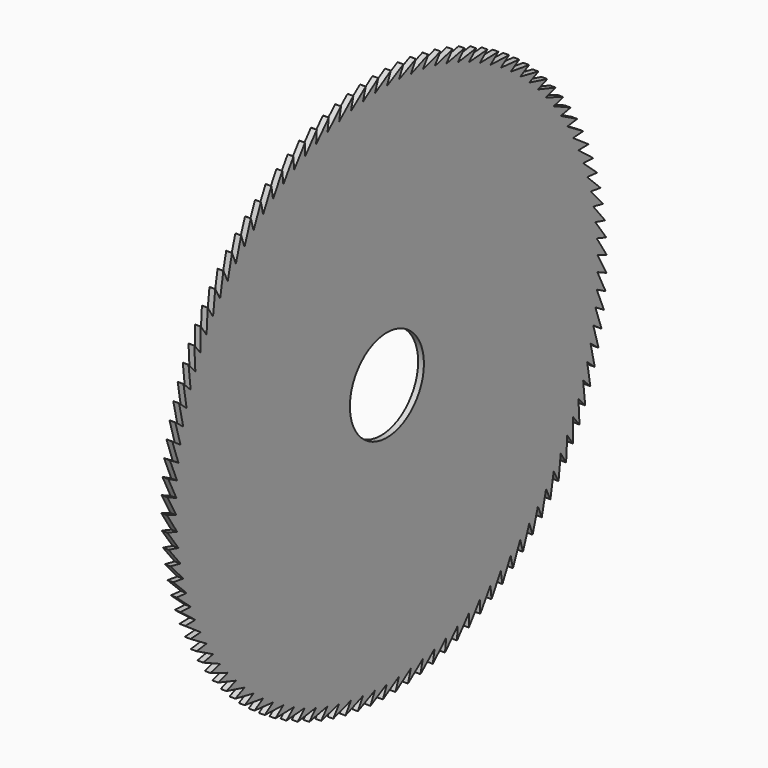
from build123d import *

# Parameters (mm, degrees)
F0_R     = 8
F1_DEPTH = 1


with BuildPart() as f1:
    # F0 (on Right) → F1 (new body)
    with BuildSketch(Plane.YZ):
        with BuildLine():
            Line((45.4814447737, 1.2993003111), (47.4974458751, 0.4925802885))
            ThreePointArc((47.4974458751, 0.4925802885), (47.4973685484, 0.4999809783), (47.4972900685, 0.5073816559))
            Line((47.4972900685, 0.5073816559), (45.3330937543, 3.8936628858))
            Line((45.3330937543, 3.8936628858), (47.3918616542, 3.2033496453))
            ThreePointArc((47.3918616542, 3.2033496453), (47.391361957, 3.2107338508), (47.3908611093, 3.2181179784))
            Line((47.3908611093, 3.2181179784), (45.0368756056, 6.4753251414))
            Line((45.0368756056, 6.4753251414), (47.1316950311, 5.9036703413))
            ThreePointArc((47.1316950311, 5.9036703413), (47.1307745933, 5.9110139769), (47.1298530113, 5.9183574689))
            Line((47.1298530113, 5.9183574689), (44.5937565297, 9.0358662324))
            Line((44.5937565297, 9.0358662324), (46.7177946152, 8.5847344918))
            ThreePointArc((46.7177946152, 8.5847344918), (46.7164564391, 8.5920136039), (46.7151171289, 8.5992925075))
            Line((46.7151171289, 8.5992925075), (44.0051818889, 11.5669342058))
            Line((44.0051818889, 11.5669342058), (46.1515104636, 11.2377970227))
            ThreePointArc((46.1515104636, 11.2377970227), (46.1497589142, 11.2449878685), (46.1480062443, 11.2521784413))
            Line((46.1480062443, 11.2521784413), (43.2730714914, 14.0602732441))
            Line((43.2730714914, 14.0602732441), (45.4346896777, 13.8542041956))
            ThreePointArc((45.4346896777, 13.8542041956), (45.432530468, 13.86128332), (45.4303701553, 13.8683621078))
            Line((45.4303701553, 13.8683621078), (42.3998133291, 16.5077505935))
            Line((42.3998133291, 16.5077505935), (44.5696703777, 16.425421834))
            ThreePointArc((44.5696703777, 16.425421834), (44.5671105506, 16.4323661463), (44.5645496416, 16.4393100597))
            Line((44.5645496416, 16.4393100597), (41.3882557886, 18.9013830916))
            Line((41.3882557886, 18.9013830916), (43.5592740768, 18.9430631604))
            ThreePointArc((43.5592740768, 18.9430631604), (43.5563219821, 18.9498500098), (43.5533688299, 18.9566363992))
            Line((43.5533688299, 18.9566363992), (40.2416983604, 21.2333632068))
            Line((40.2416983604, 21.2333632068), (42.4067964778, 21.3989161522))
            ThreePointArc((42.4067964778, 21.3989161522), (42.4034617445, 21.4055234013), (42.4001259816, 21.4121301309))
            Line((42.4001259816, 21.4121301309), (38.9638808764, 23.4960845046))
            Line((38.9638808764, 23.4960845046), (41.1159967231, 23.7849703272))
            ThreePointArc((41.1159967231, 23.7849703272), (41.1122902283, 23.7913764247), (41.1085827354, 23.7977819446))
            Line((41.1085827354, 23.7977819446), (37.5589713118, 25.6821664584))
            Line((37.5589713118, 25.6821664584), (39.6910851331, 26.0934428729))
            ThreePointArc((39.6910851331, 26.0934428729), (39.6870189667, 26.0996269233), (39.6829518369, 26.1058103401))
            Line((39.6829518369, 26.1058103401), (36.0315521895, 27.7844785234))
            Line((36.0315521895, 27.7844785234), (38.1367094732, 28.3168040314))
            ThreePointArc((38.1367094732, 28.3168040314), (38.1322968983, 28.3227458637), (38.1278833976, 28.3286870084))
            Line((38.1278833976, 28.3286870084), (34.3866056331, 29.7961633945))
            Line((34.3866056331, 29.7961633945), (36.4579397939, 30.447801661))
            ThreePointArc((36.4579397939, 30.447801661), (36.4531952033, 30.4534818941), (36.4484497276, 30.4591613879))
            Line((36.4484497276, 30.4591613879), (32.6294971165, 31.7106593738))
            Line((32.6294971165, 31.7106593738), (34.6602518928, 32.4794848901))
            ThreePointArc((34.6602518928, 32.4794848901), (34.6551907624, 32.4848849963), (34.6501287906, 32.4902843139))
            Line((34.6501287906, 32.4902843139), (30.7659579625, 33.5217217734))
            Line((30.7659579625, 33.5217217734), (32.7495094543, 34.4052267905))
            ThreePointArc((32.7495094543, 34.4052267905), (32.7441482923, 34.4103291558), (32.7387863355, 34.4154306856))
            Line((32.7387863355, 34.4154306856), (28.8020666483, 35.2234432841))
            Line((28.8020666483, 35.2234432841), (30.7319449229, 36.2187459923))
            ThreePointArc((30.7319449229, 36.2187459923), (30.7263012166, 36.2235339738), (30.7206567642, 36.2283210758))
            Line((30.7206567642, 36.2283210758), (26.7442289793, 36.8102732441))
            Line((26.7442289793, 36.8102732441), (28.614139175, 37.9141271728))
            ThreePointArc((28.614139175, 37.9141271728), (28.6082313327, 37.9185851531), (28.6023227959, 37.9230422128))
            Line((28.6023227959, 37.9230422128), (24.5991571942, 38.2770357438))
            Line((24.5991571942, 38.2770357438), (26.4030000525, 39.485840351))
            ThreePointArc((26.4030000525, 39.485840351), (26.3968473446, 39.4899537891), (26.3906939958, 39.4940662685))
            Line((26.3906939958, 39.4940662685), (22.3738480714, 39.6189465089))
            Line((22.3738480714, 39.6189465089), (24.1057398319, 40.9287589252))
            ThreePointArc((24.1057398319, 40.9287589252), (24.099362327, 40.932514404), (24.0929842371, 40.936268889))
            Line((24.0929842371, 40.936268889), (20.0755601066, 40.8316285055))
            Line((20.0755601066, 40.8316285055), (21.7298516983, 42.2381763949))
            ThreePointArc((21.7298516983, 42.2381763949), (21.7232701987, 42.2415616647), (21.7166881717, 42.244945909))
            Line((21.7166881717, 42.244945909), (17.7117898374, 41.9111262167))
            Line((17.7117898374, 41.9111262167), (19.2830853051, 43.4098217126))
            ThreePointArc((19.2830853051, 43.4098217126), (19.2763212782, 43.4128257313), (19.2695567833, 43.4158286962))
            Line((19.2695567833, 43.4158286962), (15.2902473913, 42.8539185456))
            Line((15.2902473913, 42.8539185456), (16.7734214956, 44.4398732146))
            ThreePointArc((16.7734214956, 44.4398732146), (16.7664970043, 44.4424861839), (16.7595721059, 44.4450980742))
            Line((16.7595721059, 44.4450980742), (12.8188313363, 43.6569302995))
            Line((12.8188313363, 43.6569302995), (14.2090462716, 45.3249710871))
            ThreePointArc((14.2090462716, 45.3249710871), (14.2019839021, 45.327184484), (14.1949211879, 45.3293967804))
            Line((14.1949211879, 45.3293967804), (10.3056029179, 44.3175422209))
            Line((10.3056029179, 44.3175422209), (11.5983240921, 46.0622283249))
            ThreePointArc((11.5983240921, 46.0622283249), (11.5911468804, 46.0640349296), (11.5839693873, 46.065840416))
            Line((11.5839693873, 46.065840416), (7.7587597648, 44.8335995311))
            Line((7.7587597648, 44.8335995311), (8.9497705901, 46.649240148))
            ThreePointArc((8.9497705901, 46.649240148), (8.9425019468, 46.6506340678), (8.9352330864, 46.6520268551))
            Line((8.9352330864, 46.6520268551), (5.18660915, 45.2034189584))
            Line((5.18660915, 45.2034189584), (6.2720247967, 47.0840918459))
            ThreePointArc((6.2720247967, 47.0840918459), (6.2646884305, 47.0850685342), (6.2573519123, 47.0860440794))
            Line((6.2573519123, 47.0860440794), (2.5975408943, 45.4257942286))
            Line((2.5975408943, 45.4257942286), (3.5738209621, 47.3653650227))
            ThreePointArc((3.5738209621, 47.3653650227), (3.5664408028, 47.3659212937), (3.5590605569, 47.3664764148))
            Line((3.5590605569, 47.3664764148), (0, 45.5))
            Line((0, 45.5), (0.8639600663, 47.4921422238))
            ThreePointArc((0.8639600663, 47.4921422238), (0.8565601864, 47.4922762631), (0.8491602857, 47.4924091493))
            Line((0.8491602857, 47.4924091493), (-2.5975408943, 45.4257942286))
            Line((-2.5975408943, 45.4257942286), (-1.8487188877, 47.4640099283))
            ThreePointArc((-1.8487188877, 47.4640099283), (-1.8561143513, 47.4637212986), (-1.8635097698, 47.4634315167))
            Line((-1.8635097698, 47.4634315167), (-5.18660915, 45.2034189584))
            Line((-5.18660915, 45.2034189584), (-4.5553677049, 47.2810598979))
            ThreePointArc((-4.5553677049, 47.2810598979), (-4.5627346297, 47.2803495408), (-4.5701014438, 47.2796380358))
            Line((-4.5701014438, 47.2796380358), (-7.7587597648, 44.8335995311))
            Line((-7.7587597648, 44.8335995311), (-7.2471578595, 46.9438888777))
            ThreePointArc((-7.2471578595, 46.9438888777), (-7.2544722162, 46.9427591101), (-7.2617863967, 46.9416282028))
            Line((-7.2617863967, 46.9416282028), (-10.3056029179, 44.3175422209))
            Line((-10.3056029179, 44.3175422209), (-9.9153092915, 46.4535966493))
            ThreePointArc((-9.9153092915, 46.4535966493), (-9.9225472221, 46.4520511563), (-9.9297849119, 46.4505045355))
            Line((-9.9297849119, 46.4505045355), (-12.8188313363, 43.6569302995))
            Line((-12.8188313363, 43.6569302995), (-12.5511190455, 45.8117824441))
            ThreePointArc((-12.5511190455, 45.8117824441), (-12.5582569415, 45.8098262668), (-12.5653945326, 45.8078689773))
            Line((-12.5653945326, 45.8078689773), (-15.2902473913, 42.8539185456))
            Line((-15.2902473913, 42.8539185456), (-15.145989658, 45.0205397267))
            ThreePointArc((-15.145989658, 45.0205397267), (-15.1530042369, 45.0181792457), (-15.160018448, 45.0158176717))
            Line((-15.160018448, 45.0158176717), (-17.7117898374, 41.9111262167))
            Line((-17.7117898374, 41.9111262167), (-17.6914572003, 44.0824493663))
            ThreePointArc((-17.6914572003, 44.0824493663), (-17.6983255822, 44.079692281), (-17.7051935343, 44.0769341256))
            Line((-17.7051935343, 44.0769341256), (-20.0755601066, 40.8316285055))
            Line((-20.0755601066, 40.8316285055), (-20.1792188865, 43.0005712187))
            ThreePointArc((-20.1792188865, 43.0005712187), (-20.185918668, 42.9974265222), (-20.1926179594, 42.9942807818))
            Line((-20.1926179594, 42.9942807818), (-22.3738480714, 39.6189465089))
            Line((-22.3738480714, 39.6189465089), (-22.6011601549, 41.7784341455))
            ThreePointArc((-22.6011601549, 41.7784341455), (-22.6076694828, 41.7749120951), (-22.6141782618, 41.7713890306))
            Line((-22.6141782618, 41.7713890306), (-24.5991571942, 38.2770357438))
            Line((-24.5991571942, 38.2770357438), (-24.9493811366, 40.4200245039))
            ThreePointArc((-24.9493811366, 40.4200245039), (-24.9556787788, 40.4161365879), (-24.9619758151, 40.4122476906))
            Line((-24.9619758151, 40.4122476906), (-26.7442289793, 36.8102732441))
            Line((-26.7442289793, 36.8102732441), (-27.2162224229, 38.9297731438))
            ThreePointArc((-27.2162224229, 38.9297731438), (-27.2222878377, 38.9255320436), (-27.2283525917, 38.9212899984))
            Line((-27.2283525917, 38.9212899984), (-28.8020666483, 35.2234432841))
            Line((-28.8020666483, 35.2234432841), (-29.3942900485, 37.3125409553))
            ThreePointArc((-29.3942900485, 37.3125409553), (-29.4001034519, 37.3079605046), (-29.4059161416, 37.3033791482))
            Line((-29.4059161416, 37.3033791482), (-30.7659579625, 33.5217217734))
            Line((-30.7659579625, 33.5217217734), (-31.4764796097, 35.5736030138))
            ThreePointArc((-31.4764796097, 35.5736030138), (-31.4820220396, 35.568698153), (-31.4875637052, 35.5637924287))
            Line((-31.4875637052, 35.5637924287), (-32.6294971165, 31.7106593738))
            Line((-32.6294971165, 31.7106593738), (-33.4559994368, 33.7186313732))
            ThreePointArc((-33.4559994368, 33.7186313732), (-33.4612528149, 33.713418101), (-33.4665053807, 33.7082040104))
            Line((-33.4665053807, 33.7082040104), (-34.3866056331, 29.7961633945))
            Line((-34.3866056331, 29.7961633945), (-35.3263927477, 31.7536765656))
            ThreePointArc((-35.3263927477, 31.7536765656), (-35.3313399386, 31.7481718866), (-35.3362862717, 31.7426664369))
            Line((-35.3362862717, 31.7426664369), (-36.0315521895, 27.7844785234))
            Line((-36.0315521895, 27.7844785234), (-37.0815587081, 29.6851478651))
            ThreePointArc((-37.0815587081, 29.6851478651), (-37.0861835751, 29.6793697345), (-37.0908075417, 29.6735908833))
            Line((-37.0908075417, 29.6735908833), (-37.5589713118, 25.6821664584))
            Line((-37.5589713118, 25.6821664584), (-38.7157723315, 27.5197923825))
            ThreePointArc((-38.7157723315, 27.5197923825), (-38.7200597892, 27.5137596472), (-38.7243463068, 27.5077262439))
            Line((-38.7243463068, 27.5077262439), (-38.9638808764, 23.4960845046))
            Line((-38.9638808764, 23.4960845046), (-40.2237031527, 25.2646730571))
            ThreePointArc((-40.2237031527, 25.2646730571), (-40.2276392163, 25.2584053947), (-40.2315743033, 25.2521371191))
            Line((-40.2315743033, 25.2521371191), (-40.2416983604, 21.2333632068))
            Line((-40.2416983604, 21.2333632068), (-41.6004326149, 22.9271456195))
            ThreePointArc((-41.6004326149, 22.9271456195), (-41.6040044457, 22.9206634738), (-41.6075752666, 22.9141807717))
            Line((-41.6075752666, 22.9141807717), (-41.3882557886, 18.9013830916))
            Line((-41.3882557886, 18.9013830916), (-42.8414701125, 20.5148345983))
            ThreePointArc((-42.8414701125, 20.5148345983), (-42.8446660601, 20.5081591128), (-42.8478609676, 20.5014831294))
            Line((-42.8478609676, 20.5014831294), (-42.3998133291, 16.5077505935))
            Line((-42.3998133291, 16.5077505935), (-43.9427676394, 18.0356084508))
            ThreePointArc((-43.9427676394, 18.0356084508), (-43.9455772792, 18.0287613994), (-43.9483858521, 18.0219139104))
            Line((-43.9483858521, 18.0219139104), (-43.2730714914, 14.0602732441))
            Line((-43.2730714914, 14.0602732441), (-44.9007329918, 15.4975538972))
            ThreePointArc((-44.9007329918, 15.4975538972), (-44.9031471594, 15.4905576137), (-44.9055602368, 15.4835609541))
            Line((-44.9055602368, 15.4835609541), (-44.0051818889, 11.5669342058))
            Line((-44.0051818889, 11.5669342058), (-45.7122414859, 12.9089495441))
            ThreePointArc((-45.7122414859, 12.9089495441), (-45.7142523067, 12.9018268488), (-45.7162620177, 12.8947038403))
            Line((-45.7162620177, 12.8947038403), (-44.5937565297, 9.0358662324))
            Line((-44.5937565297, 9.0358662324), (-46.3746461497, 10.2782388806))
            ThreePointArc((-46.3746461497, 10.2782388806), (-46.3762470649, 10.2710130064), (-46.3778468541, 10.2637868827))
            Line((-46.3778468541, 10.2637868827), (-45.0368756056, 6.4753251414))
            Line((-45.0368756056, 6.4753251414), (-46.8857863569, 7.6140027383))
            ThreePointArc((-46.8857863569, 7.6140027383), (-46.8869721445, 7.6066972544), (-46.8881567939, 7.5993915857))
            Line((-46.8881567939, 7.5993915857), (-45.3330937543, 3.8936628858))
            Line((-45.3330937543, 3.8936628858), (-47.2439948742, 4.9249313017))
            ThreePointArc((-47.2439948742, 4.9249313017), (-47.2447616666, 4.917570037), (-47.245527312, 4.9102086529))
            Line((-47.245527312, 4.9102086529), (-45.4814447737, 1.2993003111))
            Line((-45.4814447737, 1.2993003111), (-47.4481033, 2.2197957628))
            ThreePointArc((-47.4481033, 2.2197957628), (-47.448448596, 2.2124027283), (-47.44879274, 2.2050096401))
            Line((-47.44879274, 2.2050096401), (-45.4814447737, -1.2993003111))
            Line((-45.4814447737, -1.2993003111), (-47.4974458751, -0.4925802885))
            ThreePointArc((-47.4974458751, -0.4925802885), (-47.4973685484, -0.4999809783), (-47.4972900685, -0.5073816559))
            Line((-47.4972900685, -0.5073816559), (-45.3330937543, -3.8936628858))
            Line((-45.3330937543, -3.8936628858), (-47.3918616542, -3.2033496453))
            ThreePointArc((-47.3918616542, -3.2033496453), (-47.391361957, -3.2107338508), (-47.3908611093, -3.2181179784))
            Line((-47.3908611093, -3.2181179784), (-45.0368756056, -6.4753251414))
            Line((-45.0368756056, -6.4753251414), (-47.1316950311, -5.9036703413))
            ThreePointArc((-47.1316950311, -5.9036703413), (-47.1307745933, -5.9110139769), (-47.1298530113, -5.9183574689))
            Line((-47.1298530113, -5.9183574689), (-44.5937565297, -9.0358662324))
            Line((-44.5937565297, -9.0358662324), (-46.7177946152, -8.5847344918))
            ThreePointArc((-46.7177946152, -8.5847344918), (-46.7164564391, -8.5920136039), (-46.7151171289, -8.5992925075))
            Line((-46.7151171289, -8.5992925075), (-44.0051818889, -11.5669342058))
            Line((-44.0051818889, -11.5669342058), (-46.1515104636, -11.2377970227))
            ThreePointArc((-46.1515104636, -11.2377970227), (-46.1497589142, -11.2449878685), (-46.1480062443, -11.2521784413))
            Line((-46.1480062443, -11.2521784413), (-43.2730714914, -14.0602732441))
            Line((-43.2730714914, -14.0602732441), (-45.4346896777, -13.8542041956))
            ThreePointArc((-45.4346896777, -13.8542041956), (-45.432530468, -13.86128332), (-45.4303701553, -13.8683621078))
            Line((-45.4303701553, -13.8683621078), (-42.3998133291, -16.5077505935))
            Line((-42.3998133291, -16.5077505935), (-44.5696703777, -16.425421834))
            ThreePointArc((-44.5696703777, -16.425421834), (-44.5671105506, -16.4323661463), (-44.5645496416, -16.4393100597))
            Line((-44.5645496416, -16.4393100597), (-41.3882557886, -18.9013830916))
            Line((-41.3882557886, -18.9013830916), (-43.5592740768, -18.9430631604))
            ThreePointArc((-43.5592740768, -18.9430631604), (-43.5563219821, -18.9498500098), (-43.5533688299, -18.9566363992))
            Line((-43.5533688299, -18.9566363992), (-40.2416983604, -21.2333632068))
            Line((-40.2416983604, -21.2333632068), (-42.4067964778, -21.3989161522))
            ThreePointArc((-42.4067964778, -21.3989161522), (-42.4034617445, -21.4055234013), (-42.4001259816, -21.4121301309))
            Line((-42.4001259816, -21.4121301309), (-38.9638808764, -23.4960845046))
            Line((-38.9638808764, -23.4960845046), (-41.1159967231, -23.7849703272))
            ThreePointArc((-41.1159967231, -23.7849703272), (-41.1122902283, -23.7913764247), (-41.1085827354, -23.7977819446))
            Line((-41.1085827354, -23.7977819446), (-37.5589713118, -25.6821664584))
            Line((-37.5589713118, -25.6821664584), (-39.6910851331, -26.0934428729))
            ThreePointArc((-39.6910851331, -26.0934428729), (-39.6870189667, -26.0996269233), (-39.6829518369, -26.1058103401))
            Line((-39.6829518369, -26.1058103401), (-36.0315521895, -27.7844785234))
            Line((-36.0315521895, -27.7844785234), (-38.1367094732, -28.3168040314))
            ThreePointArc((-38.1367094732, -28.3168040314), (-38.1322968983, -28.3227458637), (-38.1278833976, -28.3286870084))
            Line((-38.1278833976, -28.3286870084), (-34.3866056331, -29.7961633945))
            Line((-34.3866056331, -29.7961633945), (-36.4579397939, -30.447801661))
            ThreePointArc((-36.4579397939, -30.447801661), (-36.4531952033, -30.4534818941), (-36.4484497276, -30.4591613879))
            Line((-36.4484497276, -30.4591613879), (-32.6294971165, -31.7106593738))
            Line((-32.6294971165, -31.7106593738), (-34.6602518928, -32.4794848901))
            ThreePointArc((-34.6602518928, -32.4794848901), (-34.6551907624, -32.4848849963), (-34.6501287906, -32.4902843139))
            Line((-34.6501287906, -32.4902843139), (-30.7659579625, -33.5217217734))
            Line((-30.7659579625, -33.5217217734), (-32.7495094543, -34.4052267905))
            ThreePointArc((-32.7495094543, -34.4052267905), (-32.7441482923, -34.4103291558), (-32.7387863355, -34.4154306856))
            Line((-32.7387863355, -34.4154306856), (-28.8020666483, -35.2234432841))
            Line((-28.8020666483, -35.2234432841), (-30.7319449229, -36.2187459923))
            ThreePointArc((-30.7319449229, -36.2187459923), (-30.7263012166, -36.2235339738), (-30.7206567642, -36.2283210758))
            Line((-30.7206567642, -36.2283210758), (-26.7442289793, -36.8102732441))
            Line((-26.7442289793, -36.8102732441), (-28.614139175, -37.9141271728))
            ThreePointArc((-28.614139175, -37.9141271728), (-28.6082313327, -37.9185851531), (-28.6023227959, -37.9230422128))
            Line((-28.6023227959, -37.9230422128), (-24.5991571942, -38.2770357438))
            Line((-24.5991571942, -38.2770357438), (-26.4030000525, -39.485840351))
            ThreePointArc((-26.4030000525, -39.485840351), (-26.3968473446, -39.4899537891), (-26.3906939958, -39.4940662685))
            Line((-26.3906939958, -39.4940662685), (-22.3738480714, -39.6189465089))
            Line((-22.3738480714, -39.6189465089), (-24.1057398319, -40.9287589252))
            ThreePointArc((-24.1057398319, -40.9287589252), (-24.099362327, -40.932514404), (-24.0929842371, -40.936268889))
            Line((-24.0929842371, -40.936268889), (-20.0755601066, -40.8316285055))
            Line((-20.0755601066, -40.8316285055), (-21.7298516983, -42.2381763949))
            ThreePointArc((-21.7298516983, -42.2381763949), (-21.7232701987, -42.2415616647), (-21.7166881717, -42.244945909))
            Line((-21.7166881717, -42.244945909), (-17.7117898374, -41.9111262167))
            Line((-17.7117898374, -41.9111262167), (-19.2830853051, -43.4098217126))
            ThreePointArc((-19.2830853051, -43.4098217126), (-19.2763212782, -43.4128257313), (-19.2695567833, -43.4158286962))
            Line((-19.2695567833, -43.4158286962), (-15.2902473913, -42.8539185456))
            Line((-15.2902473913, -42.8539185456), (-16.7734214956, -44.4398732146))
            ThreePointArc((-16.7734214956, -44.4398732146), (-16.7664970043, -44.4424861839), (-16.7595721059, -44.4450980742))
            Line((-16.7595721059, -44.4450980742), (-12.8188313363, -43.6569302995))
            Line((-12.8188313363, -43.6569302995), (-14.2090462716, -45.3249710871))
            ThreePointArc((-14.2090462716, -45.3249710871), (-14.2019839021, -45.327184484), (-14.1949211879, -45.3293967804))
            Line((-14.1949211879, -45.3293967804), (-10.3056029179, -44.3175422209))
            Line((-10.3056029179, -44.3175422209), (-11.5983240921, -46.0622283249))
            ThreePointArc((-11.5983240921, -46.0622283249), (-11.5911468804, -46.0640349296), (-11.5839693873, -46.065840416))
            Line((-11.5839693873, -46.065840416), (-7.7587597648, -44.8335995311))
            Line((-7.7587597648, -44.8335995311), (-8.9497705901, -46.649240148))
            ThreePointArc((-8.9497705901, -46.649240148), (-8.9425019468, -46.6506340678), (-8.9352330864, -46.6520268551))
            Line((-8.9352330864, -46.6520268551), (-5.18660915, -45.2034189584))
            Line((-5.18660915, -45.2034189584), (-6.2720247967, -47.0840918459))
            ThreePointArc((-6.2720247967, -47.0840918459), (-6.2646884305, -47.0850685342), (-6.2573519123, -47.0860440794))
            Line((-6.2573519123, -47.0860440794), (-2.5975408943, -45.4257942286))
            Line((-2.5975408943, -45.4257942286), (-3.5738209621, -47.3653650227))
            ThreePointArc((-3.5738209621, -47.3653650227), (-3.5664408028, -47.3659212937), (-3.5590605569, -47.3664764148))
            Line((-3.5590605569, -47.3664764148), (0, -45.5))
            Line((0, -45.5), (-0.8639600663, -47.4921422238))
            ThreePointArc((-0.8639600663, -47.4921422238), (-0.8565601864, -47.4922762631), (-0.8491602857, -47.4924091493))
            Line((-0.8491602857, -47.4924091493), (2.5975408943, -45.4257942286))
            Line((2.5975408943, -45.4257942286), (1.8487188877, -47.4640099283))
            ThreePointArc((1.8487188877, -47.4640099283), (1.8561143513, -47.4637212986), (1.8635097698, -47.4634315167))
            Line((1.8635097698, -47.4634315167), (5.18660915, -45.2034189584))
            Line((5.18660915, -45.2034189584), (4.5553677049, -47.2810598979))
            ThreePointArc((4.5553677049, -47.2810598979), (4.5627346297, -47.2803495408), (4.5701014438, -47.2796380358))
            Line((4.5701014438, -47.2796380358), (7.7587597648, -44.8335995311))
            Line((7.7587597648, -44.8335995311), (7.2471578595, -46.9438888777))
            ThreePointArc((7.2471578595, -46.9438888777), (7.2544722162, -46.9427591101), (7.2617863967, -46.9416282028))
            Line((7.2617863967, -46.9416282028), (10.3056029179, -44.3175422209))
            Line((10.3056029179, -44.3175422209), (9.9153092915, -46.4535966493))
            ThreePointArc((9.9153092915, -46.4535966493), (9.9225472221, -46.4520511563), (9.9297849119, -46.4505045355))
            Line((9.9297849119, -46.4505045355), (12.8188313363, -43.6569302995))
            Line((12.8188313363, -43.6569302995), (12.5511190455, -45.8117824441))
            ThreePointArc((12.5511190455, -45.8117824441), (12.5582569415, -45.8098262668), (12.5653945326, -45.8078689773))
            Line((12.5653945326, -45.8078689773), (15.2902473913, -42.8539185456))
            Line((15.2902473913, -42.8539185456), (15.145989658, -45.0205397267))
            ThreePointArc((15.145989658, -45.0205397267), (15.1530042369, -45.0181792457), (15.160018448, -45.0158176717))
            Line((15.160018448, -45.0158176717), (17.7117898374, -41.9111262167))
            Line((17.7117898374, -41.9111262167), (17.6914572003, -44.0824493663))
            ThreePointArc((17.6914572003, -44.0824493663), (17.6983255822, -44.079692281), (17.7051935343, -44.0769341256))
            Line((17.7051935343, -44.0769341256), (20.0755601066, -40.8316285055))
            Line((20.0755601066, -40.8316285055), (20.1792188865, -43.0005712187))
            ThreePointArc((20.1792188865, -43.0005712187), (20.185918668, -42.9974265222), (20.1926179594, -42.9942807818))
            Line((20.1926179594, -42.9942807818), (22.3738480714, -39.6189465089))
            Line((22.3738480714, -39.6189465089), (22.6011601549, -41.7784341455))
            ThreePointArc((22.6011601549, -41.7784341455), (22.6076694828, -41.7749120951), (22.6141782618, -41.7713890306))
            Line((22.6141782618, -41.7713890306), (24.5991571942, -38.2770357438))
            Line((24.5991571942, -38.2770357438), (24.9493811366, -40.4200245039))
            ThreePointArc((24.9493811366, -40.4200245039), (24.9556787788, -40.4161365879), (24.9619758151, -40.4122476906))
            Line((24.9619758151, -40.4122476906), (26.7442289793, -36.8102732441))
            Line((26.7442289793, -36.8102732441), (27.2162224229, -38.9297731438))
            ThreePointArc((27.2162224229, -38.9297731438), (27.2222878377, -38.9255320436), (27.2283525917, -38.9212899984))
            Line((27.2283525917, -38.9212899984), (28.8020666483, -35.2234432841))
            Line((28.8020666483, -35.2234432841), (29.3942900485, -37.3125409553))
            ThreePointArc((29.3942900485, -37.3125409553), (29.4001034519, -37.3079605046), (29.4059161416, -37.3033791482))
            Line((29.4059161416, -37.3033791482), (30.7659579625, -33.5217217734))
            Line((30.7659579625, -33.5217217734), (31.4764796097, -35.5736030138))
            ThreePointArc((31.4764796097, -35.5736030138), (31.4820220396, -35.568698153), (31.4875637052, -35.5637924287))
            Line((31.4875637052, -35.5637924287), (32.6294971165, -31.7106593738))
            Line((32.6294971165, -31.7106593738), (33.4559994368, -33.7186313732))
            ThreePointArc((33.4559994368, -33.7186313732), (33.4612528149, -33.713418101), (33.4665053807, -33.7082040104))
            Line((33.4665053807, -33.7082040104), (34.3866056331, -29.7961633945))
            Line((34.3866056331, -29.7961633945), (35.3263927477, -31.7536765656))
            ThreePointArc((35.3263927477, -31.7536765656), (35.3313399386, -31.7481718866), (35.3362862717, -31.7426664369))
            Line((35.3362862717, -31.7426664369), (36.0315521895, -27.7844785234))
            Line((36.0315521895, -27.7844785234), (37.0815587081, -29.6851478651))
            ThreePointArc((37.0815587081, -29.6851478651), (37.0861835751, -29.6793697345), (37.0908075417, -29.6735908833))
            Line((37.0908075417, -29.6735908833), (37.5589713118, -25.6821664584))
            Line((37.5589713118, -25.6821664584), (38.7157723315, -27.5197923825))
            ThreePointArc((38.7157723315, -27.5197923825), (38.7200597892, -27.5137596472), (38.7243463068, -27.5077262439))
            Line((38.7243463068, -27.5077262439), (38.9638808764, -23.4960845046))
            Line((38.9638808764, -23.4960845046), (40.2237031527, -25.2646730571))
            ThreePointArc((40.2237031527, -25.2646730571), (40.2276392163, -25.2584053947), (40.2315743033, -25.2521371191))
            Line((40.2315743033, -25.2521371191), (40.2416983604, -21.2333632068))
            Line((40.2416983604, -21.2333632068), (41.6004326149, -22.9271456195))
            ThreePointArc((41.6004326149, -22.9271456195), (41.6040044457, -22.9206634738), (41.6075752666, -22.9141807717))
            Line((41.6075752666, -22.9141807717), (41.3882557886, -18.9013830916))
            Line((41.3882557886, -18.9013830916), (42.8414701125, -20.5148345983))
            ThreePointArc((42.8414701125, -20.5148345983), (42.8446660601, -20.5081591128), (42.8478609676, -20.5014831294))
            Line((42.8478609676, -20.5014831294), (42.3998133291, -16.5077505935))
            Line((42.3998133291, -16.5077505935), (43.9427676394, -18.0356084508))
            ThreePointArc((43.9427676394, -18.0356084508), (43.9455772792, -18.0287613994), (43.9483858521, -18.0219139104))
            Line((43.9483858521, -18.0219139104), (43.2730714914, -14.0602732441))
            Line((43.2730714914, -14.0602732441), (44.9007329918, -15.4975538972))
            ThreePointArc((44.9007329918, -15.4975538972), (44.9031471594, -15.4905576137), (44.9055602368, -15.4835609541))
            Line((44.9055602368, -15.4835609541), (44.0051818889, -11.5669342058))
            Line((44.0051818889, -11.5669342058), (45.7122414859, -12.9089495441))
            ThreePointArc((45.7122414859, -12.9089495441), (45.7142523067, -12.9018268488), (45.7162620177, -12.8947038403))
            Line((45.7162620177, -12.8947038403), (44.5937565297, -9.0358662324))
            Line((44.5937565297, -9.0358662324), (46.3746461497, -10.2782388806))
            ThreePointArc((46.3746461497, -10.2782388806), (46.3762470649, -10.2710130064), (46.3778468541, -10.2637868827))
            Line((46.3778468541, -10.2637868827), (45.0368756056, -6.4753251414))
            Line((45.0368756056, -6.4753251414), (46.8857863569, -7.6140027383))
            ThreePointArc((46.8857863569, -7.6140027383), (46.8869721445, -7.6066972544), (46.8881567939, -7.5993915857))
            Line((46.8881567939, -7.5993915857), (45.3330937543, -3.8936628858))
            Line((45.3330937543, -3.8936628858), (47.2439948742, -4.9249313017))
            ThreePointArc((47.2439948742, -4.9249313017), (47.2447616666, -4.917570037), (47.245527312, -4.9102086529))
            Line((47.245527312, -4.9102086529), (45.4814447737, -1.2993003111))
            Line((45.4814447737, -1.2993003111), (47.4481033, -2.2197957628))
            ThreePointArc((47.4481033, -2.2197957628), (47.448448596, -2.2124027283), (47.44879274, -2.2050096401))
            Line((47.44879274, -2.2050096401), (45.4814447737, 1.2993003111))
        make_face()
        Circle(F0_R, mode=Mode.SUBTRACT)
    extrude(amount=F1_DEPTH)


solid = f1.part
